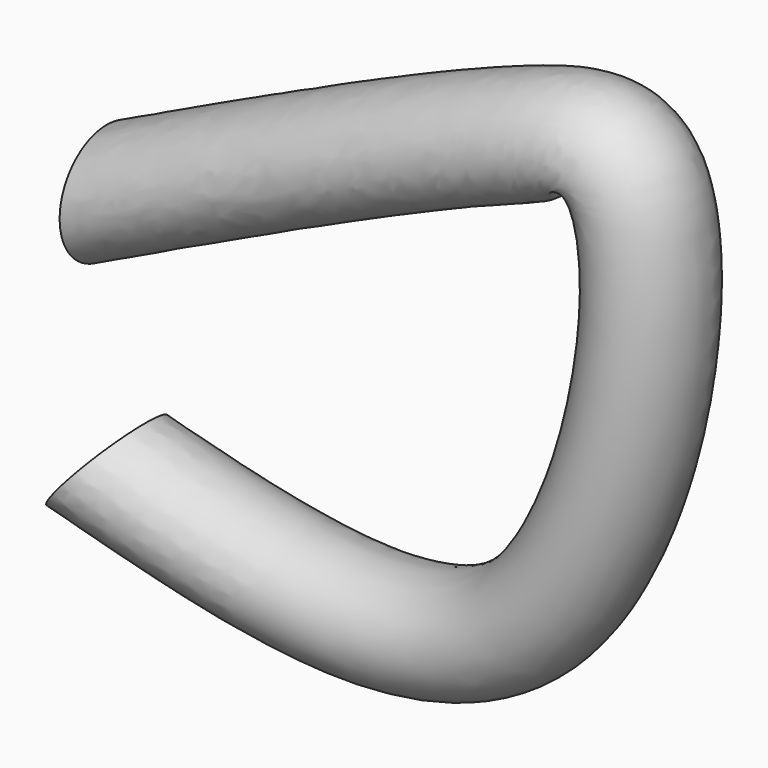
from build123d import *

# Parameters (mm, degrees)
F0_R = 14.7382288907


with BuildPart() as f2:
    # F2: sweep along a path in F1
    with BuildLine(Plane.XZ) as f2_path:
        add(Plane.XZ * Edge.make_bspline(
            [(0, 0), (38.8659345656, 18.4918437033), (97.0746130298, 46.1866822906), (146.5697730261, 57.9534622183), (123.4516573994, -92.3932360529), (41.4323235612, -70.2760160494), (0, -59.1034330428)],
            knots=[0, 0, 0, 0, 0.2919268909, 0.4372126573, 0.7157062099, 1, 1, 1, 1], degree=3))
    # F0 (on Right) → F2 (sweep)
    with BuildSketch(Plane.YZ):
        Circle(F0_R)
    sweep(path=f2_path.line)


solid = f2.part
